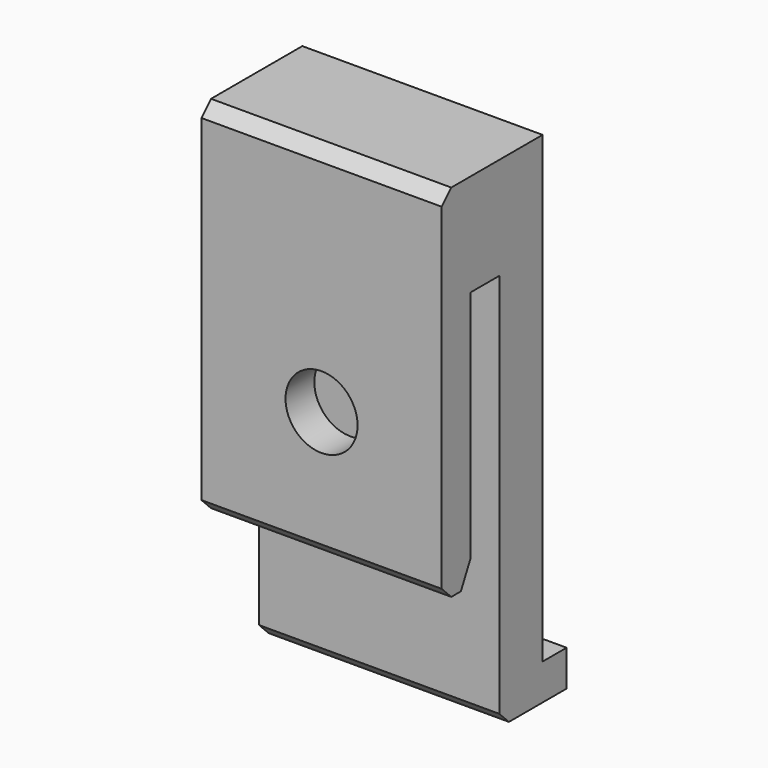
from build123d import *

# Parameters (mm, degrees)
CYLINDER014_R     = 3
CYLINDER014_DEPTH = 15
CYLINDER012_R     = 1.7
CYLINDER012_DEPTH = 15
CYLINDER013_R     = 2.9
CYLINDER013_DEPTH = 2
CHAMFER019_SIZE   = 1
BOX023_W          = 20
BOX023_H          = 6
BOX023_DEPTH      = 8.5
BOX022_W          = 20
BOX022_H          = 7
BOX022_DEPTH      = 3
BOX021_W          = 20
BOX021_H          = 4.5
BOX021_DEPTH      = 41.6
BOX024_W          = 20
BOX024_H          = 3
BOX024_DEPTH      = 30
CHAMFER020_SIZE2  = 1
CHAMFER020_SIZE   = 2
CHAMFER021_SIZE   = 1


with BuildPart() as cylinder014:
    # Cylinder014 → Cylinder014 (new body)
    with BuildSketch(Plane(origin=(10, 3, 19.3), x_dir=(1, 0, 0), z_dir=(0, -1, 0))):
        Circle(CYLINDER014_R)
    extrude(amount=CYLINDER014_DEPTH)


with BuildPart() as cylinder012:
    # Cylinder012 → Cylinder012 (new body)
    with BuildSketch(Plane(origin=(10, 7, 19.3), x_dir=(1, 0, 0), z_dir=(0, -1, 0))):
        Circle(CYLINDER012_R)
    extrude(amount=CYLINDER012_DEPTH)


with BuildPart() as chamfer019:
    # Cylinder013 → Cylinder013 (new body)
    with BuildSketch(Plane(origin=(10, 5.5, 19.3), x_dir=(1, 0, 0), z_dir=(0, -1, 0))):
        Circle(CYLINDER013_R)
    extrude(amount=CYLINDER013_DEPTH)

    # Chamfer019
    chamfer019_edges = [chamfer019.edges().sort_by_distance(p)[0] for p in [
        (7.1, 5.5, 19.3),
    ]]
    chamfer(chamfer019_edges, length=CHAMFER019_SIZE)


with BuildPart() as cube023:
    # Box023 → Box023 (new body)
    with BuildSketch(Plane(origin=(0, -6, 30.1), x_dir=(1, 0, 0), z_dir=(0, 0, 1))):
        with Locations((10, 3)):
            Rectangle(BOX023_W, BOX023_H)
    extrude(amount=BOX023_DEPTH)


with BuildPart() as cube022:
    # Box022 → Box022 (new body)
    with BuildSketch(Plane.XY.offset(-3)):
        with Locations((10, 3.5)):
            Rectangle(BOX022_W, BOX022_H)
    extrude(amount=BOX022_DEPTH)


with BuildPart() as cube021:
    # Box021 → Box021 (new body)
    with BuildSketch(Plane.XY.offset(-3)):
        with Locations((10, 2.25)):
            Rectangle(BOX021_W, BOX021_H)
    extrude(amount=BOX021_DEPTH)


with BuildPart() as clip_side_top_corner:
    # Box024 → Box024 (new body)
    with BuildSketch(Plane(origin=(0, -6, 8.6), x_dir=(1, 0, 0), z_dir=(0, 0, 1))):
        with Locations((10, 1.5)):
            Rectangle(BOX024_W, BOX024_H)
    extrude(amount=BOX024_DEPTH)

    # Fusion007: union Cube023, Cube022, Cube021
    add(cube023.part)
    add(cube022.part)
    add(cube021.part)

    # Chamfer020
    chamfer020_edges = [clip_side_top_corner.edges().sort_by_distance(p)[0] for p in [
        (10, -3, 8.6),
    ]]
    chamfer020_side = clip_side_top_corner.faces().sort_by_distance((10, -3, 19.35))[0]
    chamfer(chamfer020_edges, length=CHAMFER020_SIZE, length2=CHAMFER020_SIZE2, reference=chamfer020_side)

    # Chamfer021
    chamfer021_edges = [clip_side_top_corner.edges().sort_by_distance(p)[0] for p in [
        (10, -6, 8.6),
        (10, -6, 38.6),
        (10, 0, -3),
    ]]
    chamfer(chamfer021_edges, length=CHAMFER021_SIZE)

    # Fusion010: union Chamfer019
    add(chamfer019.part)

    # Cut010: cut Cylinder012
    add(cylinder012.part, mode=Mode.SUBTRACT)

    # Cut011: cut Cylinder014
    add(cylinder014.part, mode=Mode.SUBTRACT)


solid = clip_side_top_corner.part
